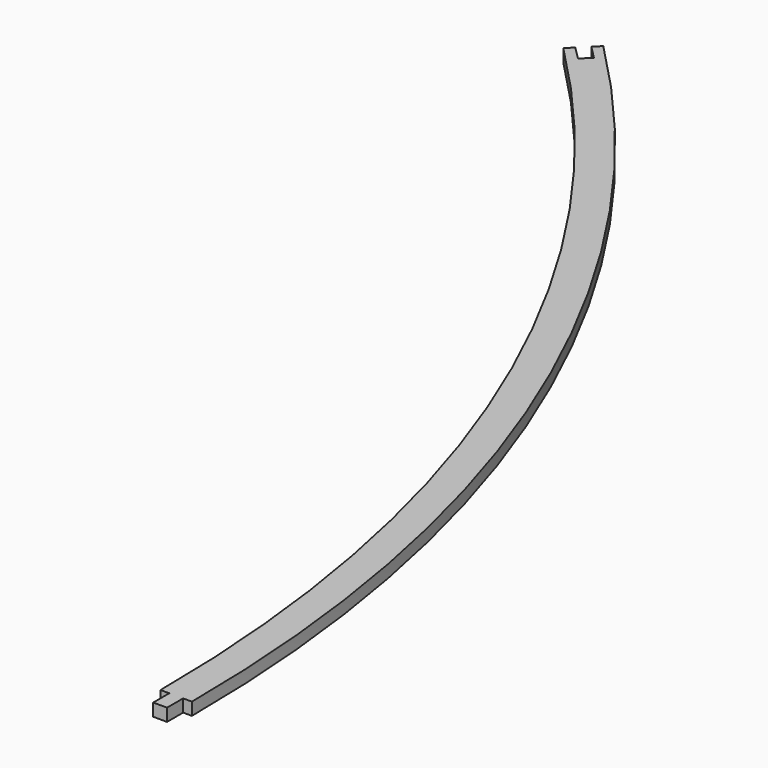
from build123d import *

# Parameters (mm, degrees)
PAD_DEPTH = 2


with BuildPart() as part:
    # Sketch → Pad (new body)
    with BuildSketch(Plane.XY):
        with BuildLine():
            ThreePointArc((235, 0), (217.11169, 89.930607), (166.170094, 166.170094))
            Line((167.230754, 167.230754), (166.170094, 166.170094))
            Line((169.352074, 165.109433), (167.230754, 167.230754))
            Line((170.766288, 166.523647), (169.352074, 165.109433))
            Line((168.644967, 168.644967), (170.766288, 166.523647))
            Line((169.705627, 169.705627), (168.644967, 168.644967))
            ThreePointArc((240, 0), (221.731088, 91.844024), (169.705627, 169.705627))
            Line((240, 0), (238.6, 0))
            Line((238.6, -3.2), (238.6, 0))
            Line((236.4, -3.2), (238.6, -3.2))
            Line((236.4, 0), (236.4, -3.2))
            Line((235, 0), (236.4, 0))
        make_face()
    extrude(amount=PAD_DEPTH)


solid = part.part
